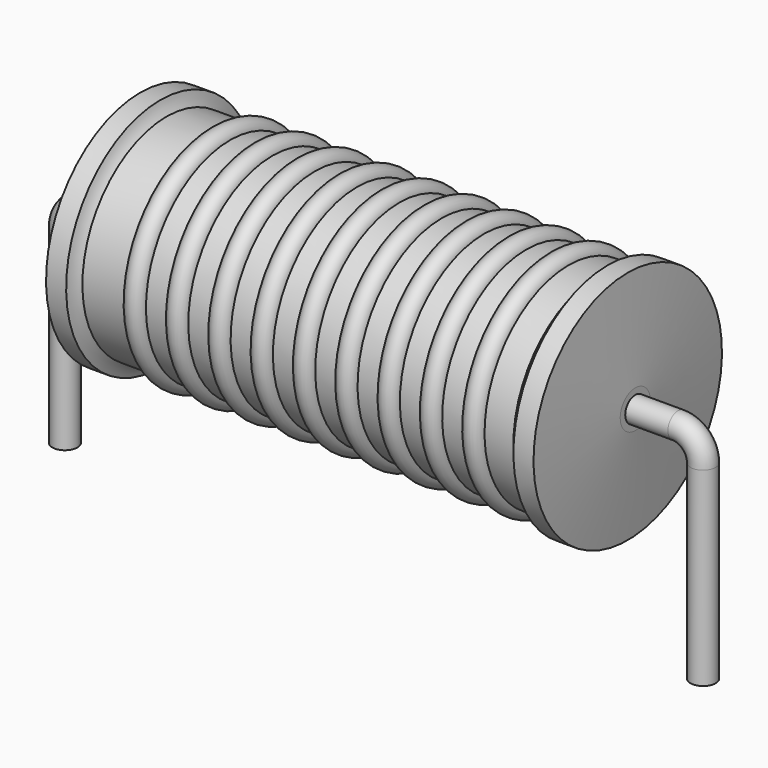
from build123d import *

# Parameters (mm, degrees)
SKETCH_R = 0.4


with BuildPart() as sweep_body:
    # Sweep: sweep along a path in Sketch001
    with BuildLine(Plane.XZ) as sweep_path:
        Line((0, -3), (0, 3.05))
        ThreePointArc((0, 3.05), (0.234311, 3.615682), (0.799989, 3.85))
        Line((0.799989, 3.85), (19.52, 3.85))
        ThreePointArc((19.52, 3.85), (20.085685, 3.615685), (20.32, 3.05))
        Line((20.32, 3.05), (20.32, -3))
    # Sketch → Sweep (sweep)
    with BuildSketch(Plane.XY.offset(-2)):
        Circle(SKETCH_R)
    sweep(path=sweep_path.line)


with BuildPart() as revolution:
    # Sketch002 → Revolution (revolve)
    with BuildSketch(Plane.XZ):
        with BuildLine():
            Line((2.4, 7.6), (3.04, 7.6))
            ThreePointArc((3.04, 7.6), (3.117022, 7.389121), (3.238, 7.2))
            Line((3.238, 7.2), (16.96, 7.2))
            ThreePointArc((16.96, 7.2), (17.140612, 7.38351), (17.28, 7.6))
            Line((17.28, 7.6), (17.92, 7.6))
            ThreePointArc((18.16, 4.45), (18.043886, 6.025296), (17.92, 7.6))
            Line((18.16, 3.85), (18.16, 4.45))
            Line((2.16, 3.85), (18.16, 3.85))
            Line((2.16, 3.85), (2.16, 4.45))
            ThreePointArc((2.4, 7.6), (2.276114, 6.025296), (2.16, 4.45))
        make_face()
    revolve(axis=Axis((2.16, 0, 3.85), (1, 0, 0)))


with BuildPart() as obj1:
    # Sketch003 → Revolution001 (revolve)
    with BuildSketch(Plane.XZ):
        with BuildLine():
            ThreePointArc((5.267368, 7.136), (4.930526, 7.472842), (4.593684, 7.136))
            Line((3.92, 7.136), (4.593684, 7.136))
            Line((3.92, 7.136), (3.92, 6.386))
            Line((3.92, 6.386), (16.72, 6.386))
            Line((16.72, 6.386), (16.72, 7.136))
            Line((16.046316, 7.136), (16.72, 7.136))
            ThreePointArc((16.046316, 7.136), (15.709474, 7.472842), (15.372632, 7.136))
            Line((14.698947, 7.136), (15.372632, 7.136))
            ThreePointArc((14.698947, 7.136), (14.362105, 7.472842), (14.025263, 7.136))
            Line((13.351579, 7.136), (14.025263, 7.136))
            ThreePointArc((13.351579, 7.136), (13.014737, 7.472842), (12.677895, 7.136))
            Line((12.004211, 7.136), (12.677895, 7.136))
            ThreePointArc((12.004211, 7.136), (11.667368, 7.472842), (11.330526, 7.136))
            Line((10.656842, 7.136), (11.330526, 7.136))
            ThreePointArc((10.656842, 7.136), (10.32, 7.472842), (9.983158, 7.136))
            Line((9.309474, 7.136), (9.983158, 7.136))
            ThreePointArc((9.309474, 7.136), (8.972632, 7.472842), (8.635789, 7.136))
            Line((7.962105, 7.136), (8.635789, 7.136))
            ThreePointArc((7.962105, 7.136), (7.625263, 7.472842), (7.288421, 7.136))
            Line((6.614737, 7.136), (7.288421, 7.136))
            ThreePointArc((6.614737, 7.136), (6.277895, 7.472842), (5.941053, 7.136))
            Line((5.267368, 7.136), (5.941053, 7.136))
        make_face()
    revolve(axis=Axis((2.56, 0, 3.85), (1, 0, 0)))

    # obj1: union Sweep body, Revolution
    add(sweep_body.part)
    add(revolution.part)


solid = obj1.part
